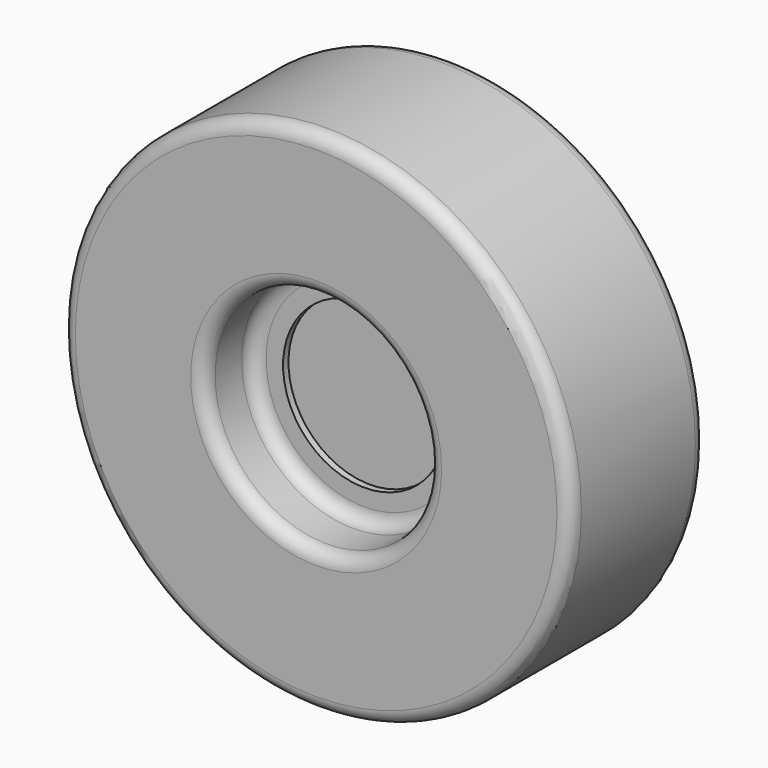
from build123d import *


with BuildPart() as f1:
    # F0 (on Top) → F1 (revolve)
    with BuildSketch(Plane.XY):
        with BuildLine():
            Line((0, 26.005173), (0, -26.005173))
            Line((0, -26.005173), (120, -26.005173))
            Line((120, -26.005173), (120, -36.005173))
            Line((120, -36.005173), (145, -36.005173))
            ThreePointArc((145, -36.005173), (159.142136, -41.863037), (165, -56.005173))
            Line((165, -56.005173), (165, -105))
            ThreePointArc((165, -105), (170.857864, -119.142136), (185, -125))
            Line((185, -125), (355, -125))
            ThreePointArc((355, -125), (369.142136, -119.142136), (375, -105))
            Line((375, -105), (375, 105))
            ThreePointArc((375, 105), (369.142136, 119.142136), (355, 125))
            Line((355, 125), (185, 125))
            ThreePointArc((185, 125), (170.857864, 119.142136), (165, 105))
            Line((165, 105), (165, 56.005173))
            ThreePointArc((165, 56.005173), (159.142136, 41.863037), (145, 36.005173))
            Line((145, 36.005173), (120, 36.005173))
            Line((120, 36.005173), (120, 26.005173))
            Line((120, 26.005173), (0, 26.005173))
        make_face()
    revolve(axis=Axis((0, 0, 0), (0, -1, 0)))


solid = f1.part
